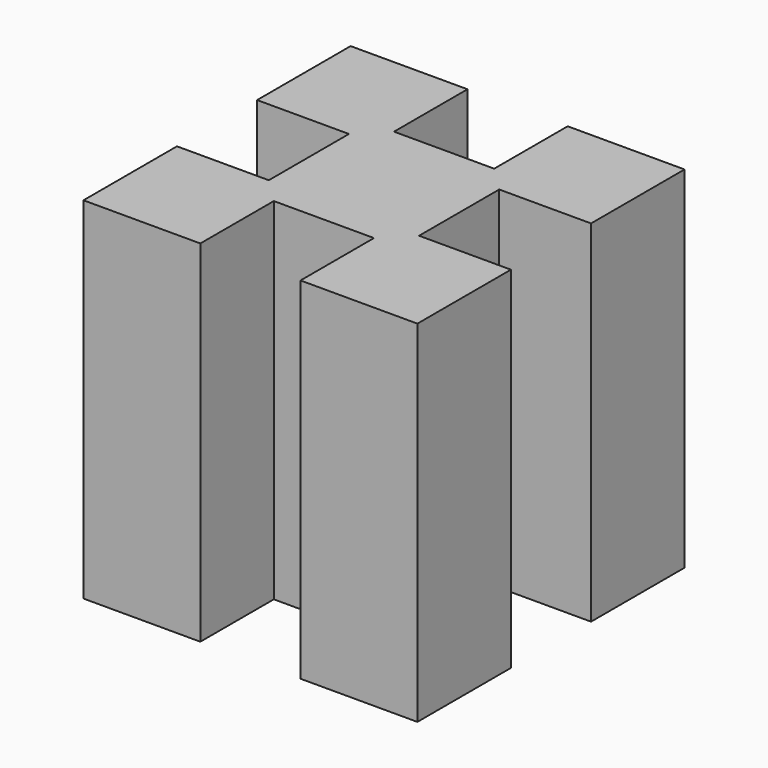
from build123d import *

# Parameters (mm, degrees)
F1_DEPTH = 21
F2_R     = 2.5
F3_DEPTH = 25
F4_R     = 2.5
F5_DEPTH = 25


with BuildPart() as f1:
    # F0 (on Top) → F1 (new body)
    with BuildSketch(Plane.XY):
        Polygon((0, 7), (0, 0), (7, 0), (7, 5.5), (13, 5.5), (13, 0), (20, 0), (20, 7), (14.5, 7), (14.5, 13), (20, 13), (20, 20), (13, 20), (13, 14.5), (7, 14.5), (7, 20), (0, 20), (0, 13), (5.5, 13), (5.5, 7), align=None)
    extrude(amount=F1_DEPTH)

    # F2 (on face) → F3 (cut)
    with BuildSketch(Plane.YZ.offset(14.5)):
        with Locations((10, 70)):
            Circle(F2_R)
    extrude(amount=-F3_DEPTH, mode=Mode.SUBTRACT)

    # F4 (on face) → F5 (cut)
    with BuildSketch(Plane.XZ.offset(-5.5)):
        with Locations((10, 70)):
            Circle(F4_R)
    extrude(amount=-F5_DEPTH, mode=Mode.SUBTRACT)


solid = f1.part
